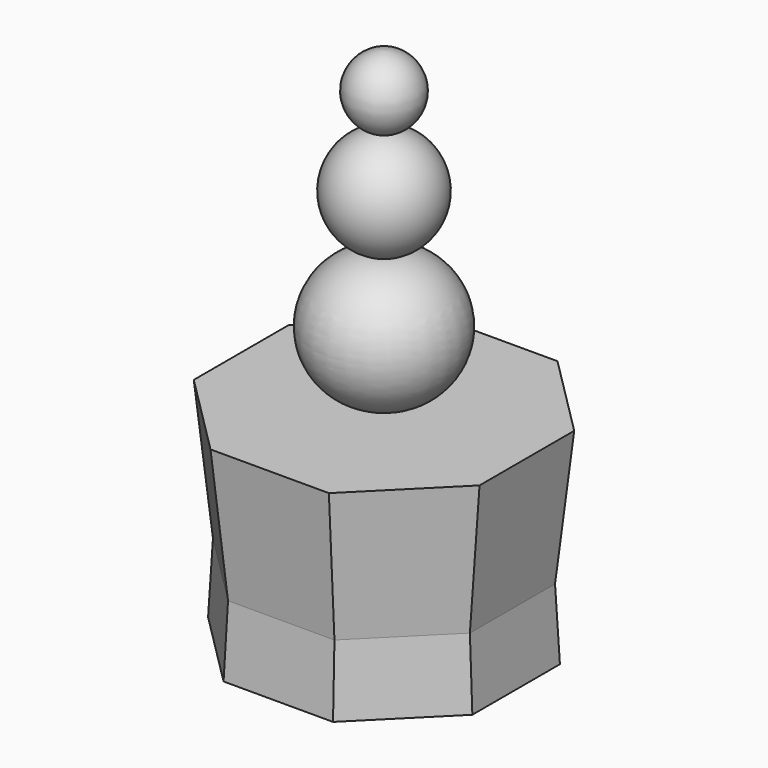
from build123d import *

# Parameters (mm, degrees)
F1_DEPTH      = 34.29
F1_TAPER      = -6
F1_DEPTH_BACK = 17.526
F1_TAPER_BACK = -3


with BuildPart() as f1:
    # F0 (on Top) → F1 (new body, two sides)
    with BuildSketch(Plane.XY) as f1_sk:
        Polygon((13.3054687855, 32.1222431958), (-13.3054687855, 32.1222431958), (-32.1222431958, 13.3054687855), (-32.1222431958, -13.3054687855), (-13.3054687855, -32.1222431958), (13.3054687855, -32.1222431958), (32.1222431958, -13.3054687855), (32.1222431958, 13.3054687855), align=None)
    extrude(amount=F1_DEPTH, taper=F1_TAPER)
    extrude(f1_sk.sketch, amount=-F1_DEPTH_BACK, taper=F1_TAPER_BACK)


with BuildPart() as f3:
    # F2 (on Front) → F3 (revolve)
    with BuildSketch(Plane.XZ):
        with BuildLine():
            Line((0, 35.347545238), (0, 67.9887905717))
            ThreePointArc((0, 67.9887905717), (-17.6175366938, 51.6681679048), (0, 35.347545238))
        make_face()
    revolve(axis=Axis((0, 0, 38.0343087018), (0, 0, -1)))

    # F4 (on Front) → F5 (revolve)
    with BuildSketch(Plane.XZ):
        with BuildLine():
            Line((0, 67.9233825718), (0, 95.0891971588))
            ThreePointArc((0, 95.0891971588), (-13.054661643, 81.5062898653), (0, 67.9233825718))
        make_face()
    revolve(axis=Axis((0, 0, 52.1846041083), (0, 0, -1)))

    # F6 (on Front) → F7 (revolve)
    with BuildSketch(Plane.XZ):
        with BuildLine():
            Line((0, 94.6286473096), (0, 112.4132350087))
            ThreePointArc((0, 112.4132350087), (-8.5828873816, 103.5209411591), (0, 94.6286473096))
        make_face()
    revolve(axis=Axis((0, 0, 62.758795917), (0, 0, -1)))


solid = Compound([f1.part, f3.part])
